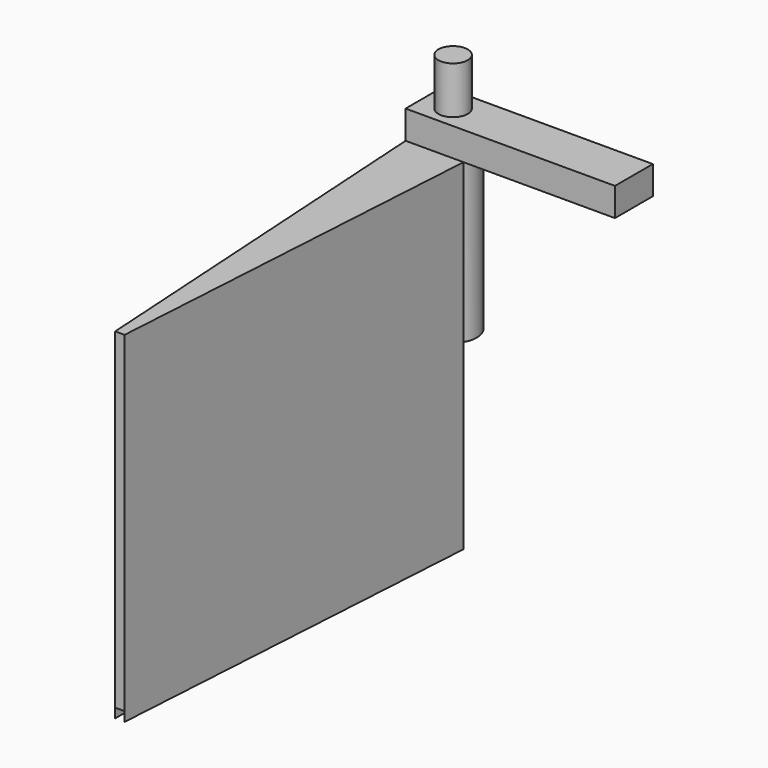
from build123d import *

# Parameters (mm, degrees)
F1_DEPTH = 55.5625
F2_W     = 3.175
F2_H     = 131.9228700667
F3_DEPTH = 55.5625
F5_DEPTH = 114.3
F6_R     = 4.9279707003
F7_DEPTH = 25.4
F9_DEPTH = 9.525


with BuildPart() as f1:
    # F0 (on Top) → F1 (new body)
    with BuildSketch(Plane.XY):
        with BuildLine():
            ThreePointArc((1.5875, -7.7771299333), (6.1483610621, -5.0201157855), (7.9375, 0))
            ThreePointArc((7.9375, 0), (-5.0201157855, 6.1483610621), (-1.5875, -7.7771299333))
            Line((-1.5875, -7.7771299333), (-1.5875, -4.4901280605))
            ThreePointArc((-1.5875, -4.4901280605), (-3.8885649667, -2.749630657), (-4.7625, 0))
            ThreePointArc((-4.7625, 0), (0, 4.7625), (4.7625, 0))
            ThreePointArc((4.7625, 0), (3.8885649667, -2.749630657), (1.5875, -4.4901280605))
            Line((1.5875, -4.4901280605), (1.5875, -7.7771299333))
        make_face()
        with BuildLine():
            Line((-1.5875, -4.4901280605), (-1.5875, -7.7771299333))
            ThreePointArc((-1.5875, -7.7771299333), (0, -7.9375), (1.5875, -7.7771299333))
            Line((1.5875, -7.7771299333), (1.5875, -4.4901280605))
            ThreePointArc((1.5875, -4.4901280605), (0, -4.7625), (-1.5875, -4.4901280605))
        make_face()
        with BuildLine():
            ThreePointArc((1.5875, -7.7771299333), (0, -7.9375), (-1.5875, -7.7771299333))
            Line((-1.5875, -7.7771299333), (-1.5875, -139.7))
            Line((-1.5875, -139.7), (1.5875, -139.7))
            Line((1.5875, -139.7), (1.5875, -7.7771299333))
        make_face()
    extrude(amount=F1_DEPTH)

    # F2 (on face) → F3 (join)
    with BuildSketch(Plane(origin=(0, 0, 0), x_dir=(1, 0, 0), z_dir=(0, 0, -1))):
        with Locations((0, 73.7385649667)):
            Rectangle(F2_W, F2_H)
    extrude(amount=F3_DEPTH)

    # F4 (on face) → F5 (join)
    with BuildSketch(Plane.XY.offset(55.5625)):
        Polygon((-1.5875, -139.7), (-1.5875, -7.7771299333), (-9.7155, -7.7771299333), align=None)
        Polygon((9.7155, -7.7771299333), (1.5875, -7.7771299333), (1.5875, -139.7), align=None)
    extrude(amount=-F5_DEPTH)

    # F6 (on face) → F7 (join)
    with BuildSketch(Plane.XY.offset(55.5625)):
        Circle(F6_R)
    extrude(amount=F7_DEPTH)


with BuildPart() as f9:
    # F8 (on face) → F9 (new body)
    with BuildSketch(Plane.XY.offset(55.5625)):
        Polygon((-9.7155, 8.0978700667), (-9.7155, -7.7771299333), (9.7155, -7.7771299333), (60.5155, -7.7771299333), (60.5155, 8.0978700667), (9.7155, 8.0978700667), align=None)
    extrude(amount=F9_DEPTH)


solid = Compound([f1.part, f9.part])
